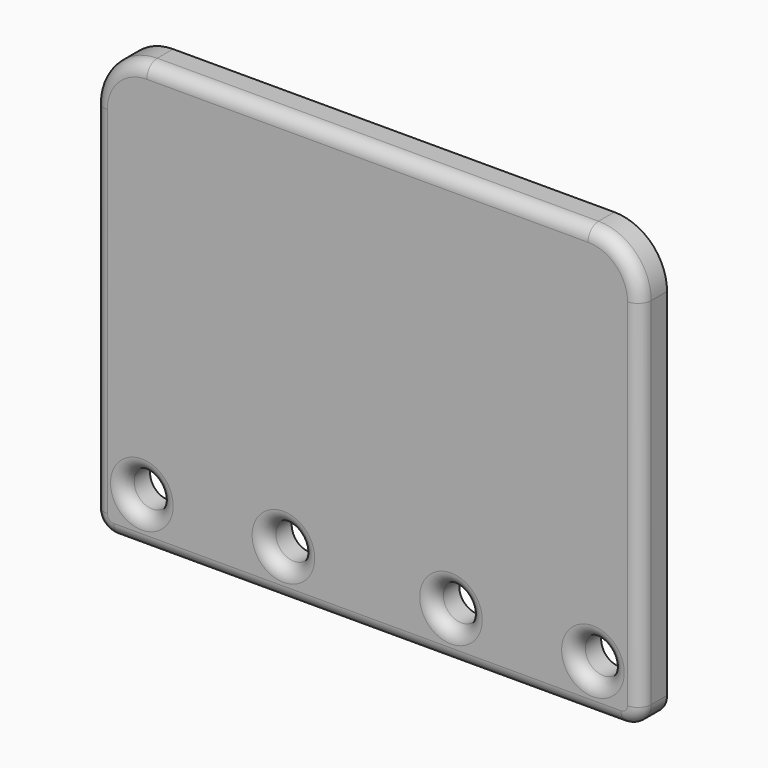
from build123d import *

# Parameters (mm, degrees)
F0_R     = 7.002224
F0_R_2   = 6.995584
F0_R_3   = 6.985
F1_DEPTH = 12.7
F2_R     = 5.08


with BuildPart() as f1:
    # F0 (on Front) → F1 (new body)
    with BuildSketch(Plane.XZ):
        with BuildLine():
            Line((37.680028, 111.202829), (-132.499972, 111.202829))
            ThreePointArc((-132.499972, 111.202829), (-146.868382, 105.251239), (-152.819972, 90.882829))
            Line((-152.819972, 90.882829), (-152.819972, -46.277171))
            ThreePointArc((-152.819972, -46.277171), (-150.588126, -51.665325), (-145.199972, -53.897171))
            Line((-145.199972, -53.897171), (-55.029972, -53.897171))
            Line((-55.029972, -53.897171), (-39.789972, -53.897171))
            Line((-39.789972, -53.897171), (50.380028, -53.897171))
            ThreePointArc((50.380028, -53.897171), (55.768182, -51.665325), (58.000028, -46.277171))
            Line((58.000028, -46.277171), (58.000028, 90.882829))
            ThreePointArc((58.000028, 90.882829), (52.048438, 105.251239), (37.680028, 111.202829))
        make_face()
        with Locations((-134.407488, -35.46943)):
            Circle(F0_R, mode=Mode.SUBTRACT)
        with Locations((-79.784476, -35.467136)):
            Circle(F0_R_2, mode=Mode.SUBTRACT)
        with Locations((-15.170232, -35.400602)):
            Circle(F0_R_3, mode=Mode.SUBTRACT)
        with Locations((39.581503, -35.505551)):
            Circle(F0_R_3, mode=Mode.SUBTRACT)
    extrude(amount=F1_DEPTH)

    # F2
    f2_edges = [f1.edges().sort_by_distance(p)[0] for p in [
        (52.048438, -12.7, 105.251239),
        (-47.409972, -12.7, 111.202829),
        (-146.868382, -12.7, 105.251239),
        (-152.819972, -12.7, 22.302829),
        (-150.588126, -12.7, -51.665325),
        (-47.409972, -12.7, -53.897171),
        (55.768182, -12.7, -51.665325),
        (58.000028, -12.7, 22.302829),
        (-141.409712, -12.7, -35.46943),
        (-86.78006, -12.7, -35.467136),
        (-22.155232, -12.7, -35.400602),
        (32.596503, -12.7, -35.505551),
    ]]
    fillet(f2_edges, radius=F2_R)


solid = f1.part
